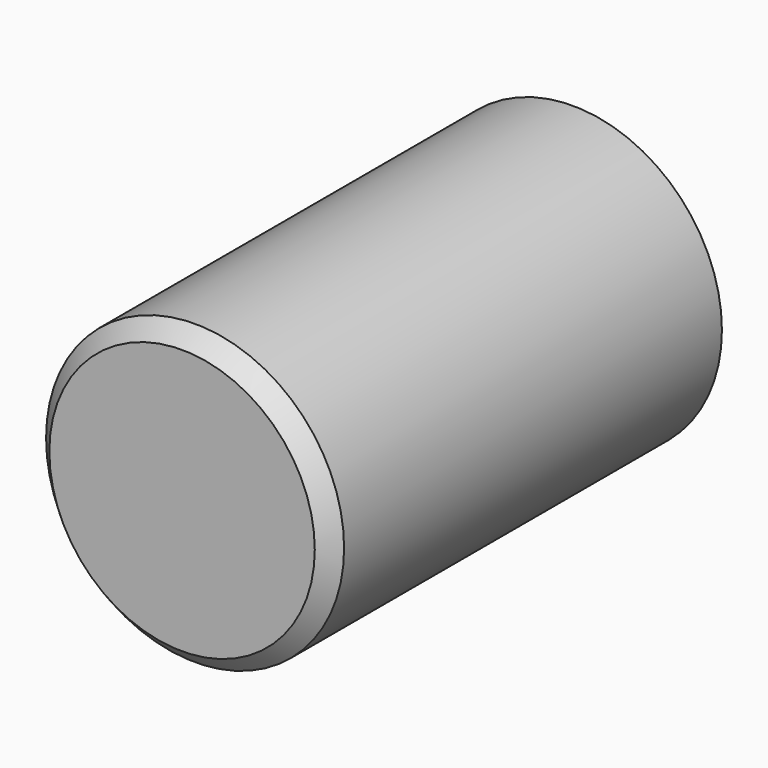
from build123d import *

# Parameters (mm, degrees)
F0_R          = 9.15
F1_DEPTH      = 30
F2_SIZE2      = 1
F2_SIZE       = 1
F5_DEPTH      = 3
F5_DEPTH_BACK = 8
F6_DEPTH      = 25
F6_DEPTH_BACK = 25


with BuildPart() as f1:
    # F0 (on Front) → F1 (new body)
    with BuildSketch(Plane.XZ):
        Circle(F0_R)
    extrude(amount=F1_DEPTH)

    # F2
    f2_edges = [f1.edges().sort_by_distance(p)[0] for p in [
        (-9.15, -30, 0),
    ]]
    chamfer(f2_edges, length=F2_SIZE, length2=F2_SIZE2)

    # F4 (on offset) → F5 (cut, two sides)
    with BuildSketch(Plane.XZ.offset(20)) as f5_sk:
        with BuildLine():
            Line((0, -4.4547727215), (-4.4547727215, 0))
            Line((-4.4547727215, 0), (-8.3019233801, -3.8471506587))
            ThreePointArc((-8.3019233801, -3.8471506587), (-6.4700270479, -6.4700270479), (-3.8471506587, -8.3019233801))
            Line((-3.8471506587, -8.3019233801), (0, -4.4547727215))
        make_face()
    extrude(amount=F5_DEPTH, mode=Mode.SUBTRACT)
    extrude(f5_sk.sketch, amount=-F5_DEPTH_BACK, mode=Mode.SUBTRACT)

    # F6 (cut, two sides): a face of the model
    f6_faces = [f1.faces().sort_by_distance(p)[0] for p in [
        (-6.3783480508, -17.5, -1.9235753293),
    ]]
    extrude(f6_faces, amount=-F6_DEPTH, mode=Mode.SUBTRACT)
    extrude(f6_faces, amount=F6_DEPTH_BACK, mode=Mode.SUBTRACT)


solid = f1.part
